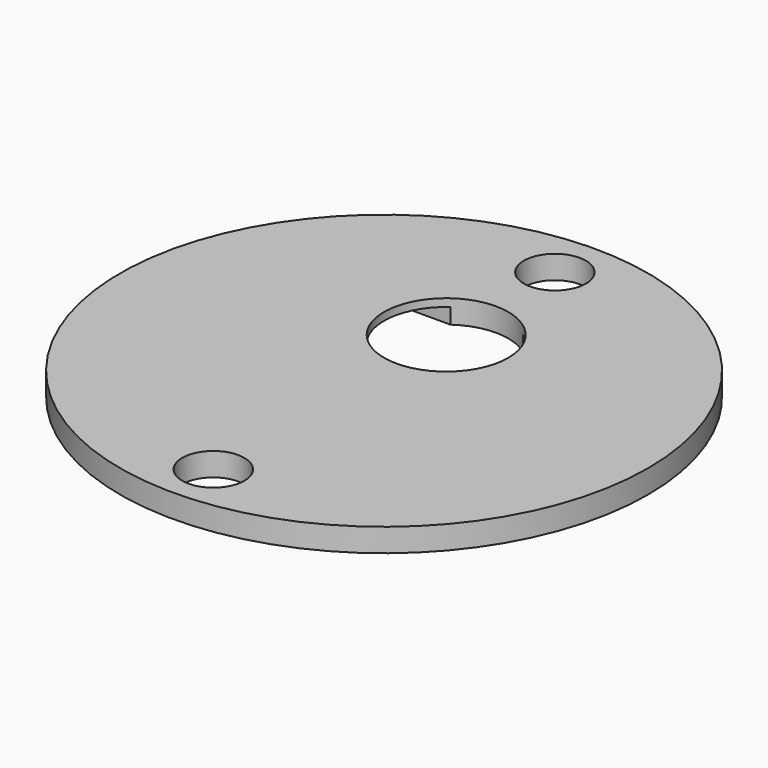
from build123d import *

# Parameters (mm, degrees)
F0_R     = 9.1
F0_W     = 12.7
F0_H     = 11.5
F1_DEPTH = 14
F3_DEPTH = 5
F5_R     = 17
F5_R_2   = 2
F5_R_3   = 4
F6_DEPTH = 1.5
F2_W     = 12.7
F2_H     = 9
F2_H_2   = 2.5
F8_DEPTH = 3.5


with BuildPart() as f1:
    # F0 (on Top) → F1 (new body)
    with BuildSketch(Plane.XY):
        Circle(F0_R)
        Rectangle(F0_W, F0_H, mode=Mode.SUBTRACT)
    extrude(amount=F1_DEPTH)

    # F2 (on face) → F3 (cut)
    with BuildSketch(Plane(origin=(0, 0, 0), x_dir=(1, 0, 0), z_dir=(0, 0, -1))):
        with BuildLine():
            Line((6.35, -6.5182436285), (6.35, -5.75))
            Line((6.35, -5.75), (-6.35, -5.75))
            Line((-6.35, -5.75), (-6.35, -6.5182436285))
            ThreePointArc((-6.35, -6.5182436285), (-5.1681747735, -7.4899912891), (-3.8402473879, -8.25))
            Line((-3.8402473879, -8.25), (3.8402473879, -8.25))
            ThreePointArc((3.8402473879, -8.25), (5.1681747735, -7.4899912891), (6.35, -6.5182436285))
        make_face()
    extrude(amount=-F3_DEPTH, mode=Mode.SUBTRACT)


with BuildPart() as f6:
    # F5 (on offset) → F6 (new body)
    with BuildSketch(Plane.XY.offset(4)):
        Circle(F5_R)
        with Locations((0, -13.75)):
            Circle(F5_R_2, mode=Mode.SUBTRACT)
        with Locations((0, 5)):
            Circle(F5_R_3, mode=Mode.SUBTRACT)
        with Locations((0, 13.75)):
            Circle(F5_R_2, mode=Mode.SUBTRACT)
    extrude(amount=-F6_DEPTH)

    # F2 (on face) → F8 (cut)
    with BuildSketch(Plane(origin=(0, 0, 0), x_dir=(1, 0, 0), z_dir=(0, 0, -1))):
        with Locations((0, 1.25)):
            Rectangle(F2_W, F2_H)
        with Locations((0, -4.5)):
            Rectangle(F2_W, F2_H_2)
        with BuildLine():
            ThreePointArc((-3.8402473879, -8.25), (-5.1681747735, -7.4899912891), (-6.35, -6.5182436285))
            Line((-6.35, -6.5182436285), (-6.35, -8.25))
            Line((-6.35, -8.25), (-3.8402473879, -8.25))
        make_face()
        with BuildLine():
            Line((6.35, -6.5182436285), (6.35, -5.75))
            Line((6.35, -5.75), (-6.35, -5.75))
            Line((-6.35, -5.75), (-6.35, -6.5182436285))
            ThreePointArc((-6.35, -6.5182436285), (-5.1681747735, -7.4899912891), (-3.8402473879, -8.25))
            Line((-3.8402473879, -8.25), (3.8402473879, -8.25))
            ThreePointArc((3.8402473879, -8.25), (5.1681747735, -7.4899912891), (6.35, -6.5182436285))
        make_face()
        with BuildLine():
            Line((6.35, -8.25), (6.35, -6.5182436285))
            ThreePointArc((6.35, -6.5182436285), (5.1681747735, -7.4899912891), (3.8402473879, -8.25))
            Line((3.8402473879, -8.25), (6.35, -8.25))
        make_face()
    extrude(amount=-F8_DEPTH, mode=Mode.SUBTRACT)


solid = f6.part
